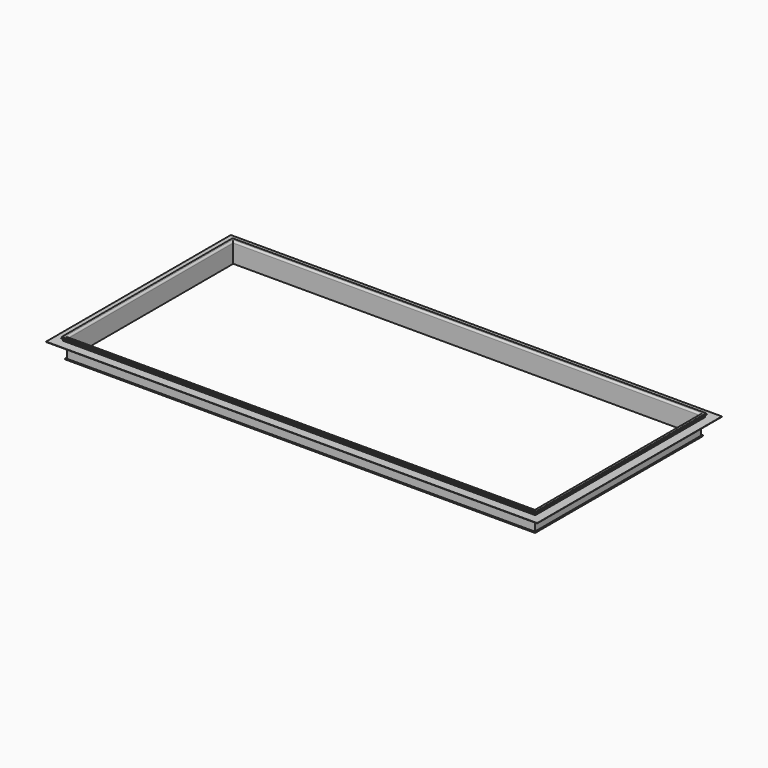
from build123d import *


with BuildPart() as f2:
    # F2: sweep along a path in F1
    with BuildLine(Plane.XY) as f2_path:
        Line((0, 6), (1663.7, 6))
        Line((1663.7, 6), (1663.7, -736.95))
        Line((1663.7, -736.95), (0, -736.95))
        Line((0, -736.95), (0, 6))
    # F0 (on Right) → F2 (sweep)
    with BuildSketch(Plane.YZ):
        with BuildLine():
            Line((0, -6), (0, -70.7))
            Line((0, -70.7), (6, -70.7))
            Line((6, -70.7), (6, -68))
            Line((6, -68), (4.8, -68))
            Line((4.8, -68), (4.8, -69.5))
            Line((4.8, -69.5), (1.5, -69.5))
            Line((1.5, -69.5), (1.5, -6))
            ThreePointArc((1.5, -6), (2.8180194847, -2.8180194847), (6, -1.5))
            Line((6, -1.5), (8.6, -1.5))
            Line((8.6, -1.5), (8.6, -9.4503759398))
            Line((8.6, -9.4503759398), (6, -12.5))
            Line((6, -12.5), (6, -13.7))
            Line((6, -13.7), (6.5538461538, -13.7))
            Line((6.5538461538, -13.7), (8.6, -11.3))
            Line((8.6, -11.3), (8.6, -13.7))
            Line((8.6, -13.7), (43.1, -13.7))
            Line((43.1, -13.7), (43.1, -12.5))
            Line((43.1, -12.5), (9.8, -12.5))
            Line((9.8, -12.5), (9.8, -4.5))
            Line((9.8, -4.5), (13.5, -4.5))
            Line((13.5, -4.5), (13.5, -3.3))
            Line((13.5, -3.3), (9.8, -3.3))
            Line((9.8, -3.3), (9.8, -1.5))
            Line((9.8, -1.5), (12.2, -1.5))
            Line((12.2, -1.5), (12.2, 0))
            Line((12.2, 0), (6, 0))
            ThreePointArc((6, 0), (1.7573593129, -1.7573593129), (0, -6))
        make_face()
    sweep(path=f2_path.line, transition=Transition.RIGHT)


solid = f2.part
